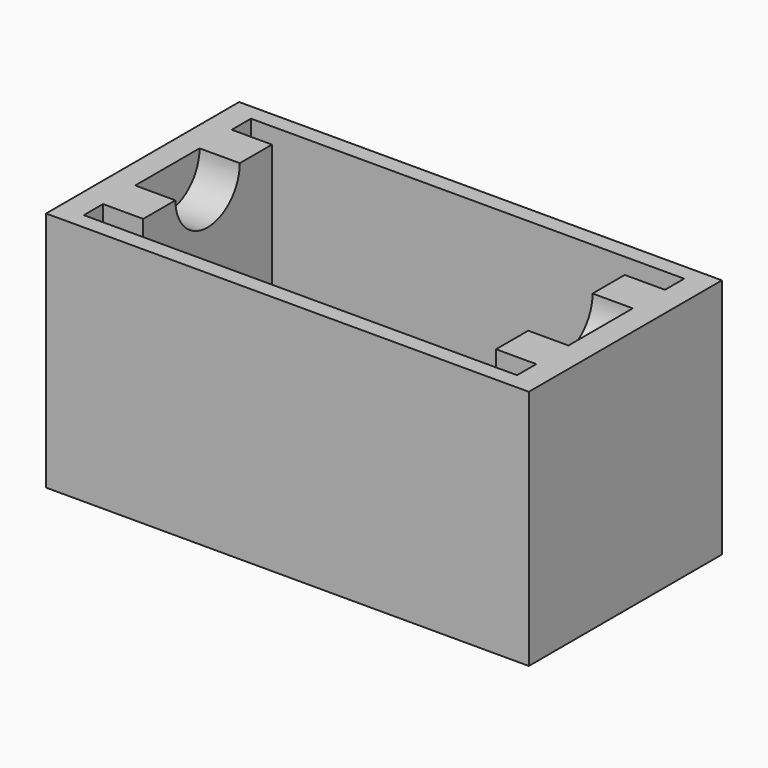
from build123d import *

# Parameters (mm, degrees)
F0_W     = 152.4
F0_H     = 76.2
F1_DEPTH = 76.2
F2_W     = 136.779776
F2_H     = 65.982648
F3_DEPTH = 50.8
F5_DEPTH = 12.7
F7_DEPTH = 12.7
F8_R     = 25.4
F9_DEPTH = 66.04


with BuildPart() as f1:
    # F0 (on Front) → F1 (new body)
    with BuildSketch(Plane.XZ):
        with Locations((-16.745566, 0.768143)):
            Rectangle(F0_W, F0_H)
    extrude(amount=F1_DEPTH)

    # F2 (on face) → F3 (cut)
    with BuildSketch(Plane.XY.offset(38.868143)):
        with Locations((-16.745566, -38.1)):
            Rectangle(F2_W, F2_H)
    extrude(amount=-F3_DEPTH, mode=Mode.SUBTRACT)

    # F4 (on face) → F5 (join)
    with BuildSketch(Plane.YZ.offset(-85.135454)):
        with BuildLine():
            ThreePointArc((-25.4, 38.868143), (-38.1, 26.168143), (-50.8, 38.868143))
            Line((-50.8, 38.868143), (-63.5, 38.868143))
            Line((-63.5, 38.868143), (-63.5, -11.931857))
            Line((-63.5, -11.931857), (-12.7, -11.931857))
            Line((-12.7, -11.931857), (-12.7, 38.868143))
            Line((-12.7, 38.868143), (-25.4, 38.868143))
        make_face()
    extrude(amount=F5_DEPTH)

    # F6 (on face) → F7 (join)
    with BuildSketch(Plane(origin=(51.644322, 0, 0), x_dir=(0, -1, 0), z_dir=(-1, 0, 0))):
        with BuildLine():
            ThreePointArc((50.8, 38.868143), (38.1, 26.168143), (25.4, 38.868143))
            Line((25.4, 38.868143), (12.7, 38.868143))
            Line((12.7, 38.868143), (12.7, -11.931857))
            Line((12.7, -11.931857), (63.5, -11.931857))
            Line((63.5, -11.931857), (63.5, 38.868143))
            Line((63.5, 38.868143), (50.8, 38.868143))
        make_face()
    extrude(amount=F7_DEPTH)

    # F8 (on face) → F9 (cut)
    with BuildSketch(Plane.XY.offset(-11.931857)):
        with Locations((-16.745566, -38.1)):
            Circle(F8_R)
    extrude(amount=-F9_DEPTH, mode=Mode.SUBTRACT)


solid = f1.part
